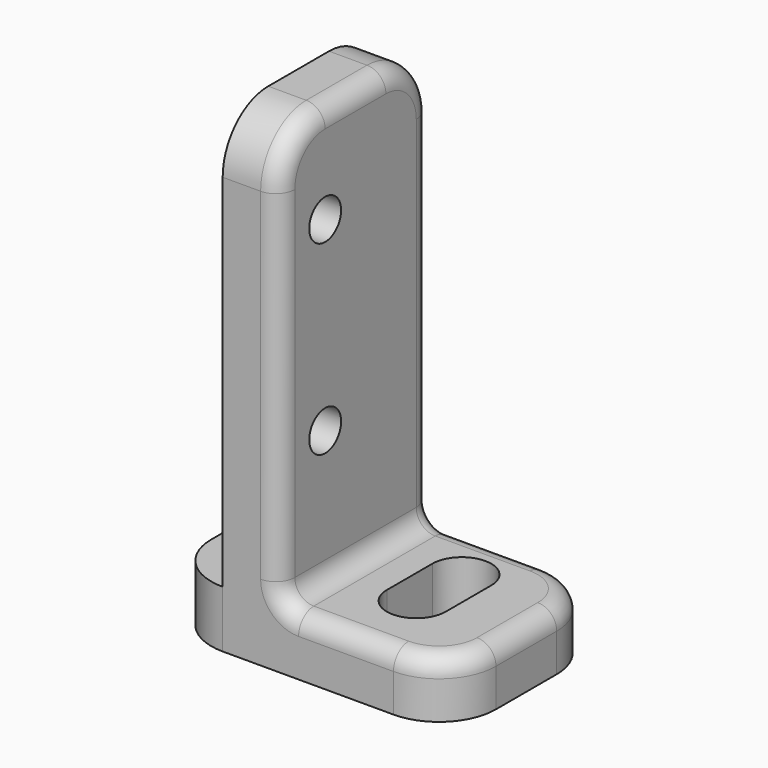
from build123d import *

# Parameters (mm, degrees)
SKETCH_W     = 15
SKETCH_H     = 10
PAD_DEPTH    = 3
SKETCH001_W  = 3
SKETCH001_H  = 10
PAD001_DEPTH = 22
SKETCH002_R  = 1.05
POCKET_DEPTH = 6.001
FILLET_R     = 3
FILLET001_R  = 3
FILLET002_R  = 1
FILLET003_R  = 1


with BuildPart() as part:
    # Sketch → Pad (new body)
    with BuildSketch(Plane.XY):
        with Locations((-2.5, -2)):
            Rectangle(SKETCH_W, SKETCH_H)
        with BuildLine():
            ThreePointArc((1.55, 0), (0, 1.55), (-1.55, 0))
            Line((-1.55, 0), (-1.55, -3))
            ThreePointArc((-1.55, -3), (0, -4.55), (1.55, -3))
            Line((1.55, 0), (1.55, -3))
        make_face(mode=Mode.SUBTRACT)
    extrude(amount=PAD_DEPTH)

    # Sketch001 → Pad001 (new body)
    with BuildSketch(Plane.XY.offset(3)):
        with Locations((-5.5, -2)):
            Rectangle(SKETCH001_W, SKETCH001_H)
    extrude(amount=PAD001_DEPTH)

    # Sketch002 → Pocket (cut, through all)
    with BuildSketch(Plane.YZ.offset(-4)):
        with Locations((-4, 19.8)):
            Circle(SKETCH002_R)
        with Locations((-4, 10)):
            Circle(SKETCH002_R)
    extrude(amount=-POCKET_DEPTH, mode=Mode.SUBTRACT)

    # Fillet
    fillet_edges = [part.edges().sort_by_distance(p)[0] for p in [
        (-10, -7, 1.5),
        (-10, 3, 1.5),
        (5, -7, 1.5),
        (5, 3, 1.5),
    ]]
    fillet(fillet_edges, radius=FILLET_R)

    # Fillet001
    fillet001_edges = [part.edges().sort_by_distance(p)[0] for p in [
        (-5.5, -7, 25),
        (-5.5, 3, 25),
    ]]
    fillet(fillet001_edges, radius=FILLET001_R)

    # Fillet002
    fillet002_edges = [part.edges().sort_by_distance(p)[0] for p in [
        (-4, -2, 3),
    ]]
    fillet(fillet002_edges, radius=FILLET002_R)

    # Fillet003
    fillet003_edges = [part.edges().sort_by_distance(p)[0] for p in [
        (-4, -6.12132, 24.12132),
    ]]
    fillet(fillet003_edges, radius=FILLET003_R)


solid = part.part
